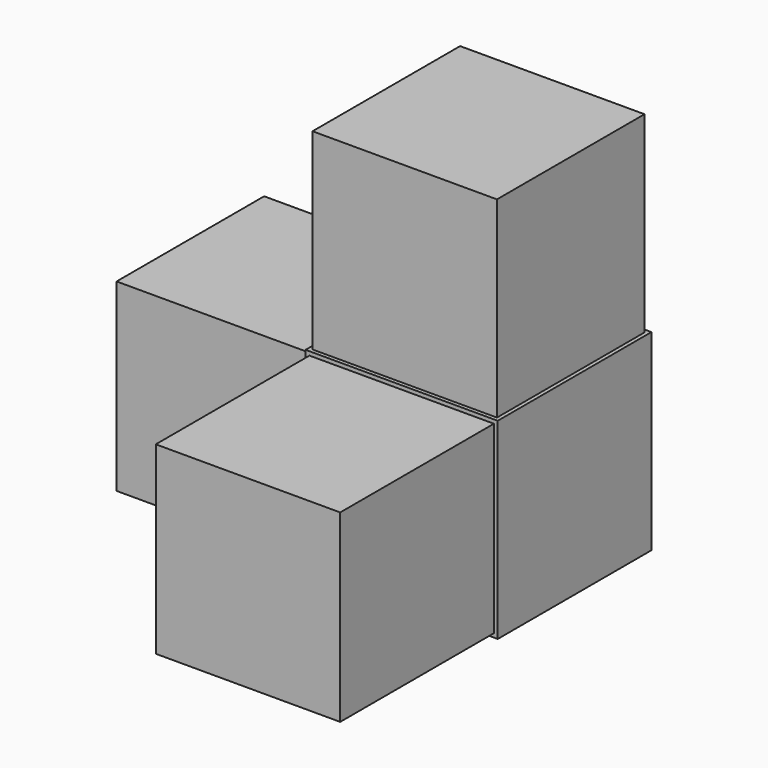
from build123d import *

# Parameters (mm, degrees)
F0_W     = 25
F0_H     = 25
F1_DEPTH = 25
F2_W     = 24
F2_H     = 24
F3_DEPTH = 25
F4_W     = 24
F4_H     = 24
F5_DEPTH = 25
F6_W     = 24
F6_H     = 24
F7_DEPTH = 25


with BuildPart() as f1:
    # F0 (on Right) → F1 (new body)
    with BuildSketch(Plane.YZ):
        with Locations((12.5, 12.5)):
            Rectangle(F0_W, F0_H)
    extrude(amount=F1_DEPTH)

    # F2 (on Right) → F3 (join)
    with BuildSketch(Plane.YZ):
        with Locations((12.5, 12.5)):
            Rectangle(F2_W, F2_H)
    extrude(amount=-F3_DEPTH)

    # F4 (on face) → F5 (join)
    with BuildSketch(Plane.XZ):
        with Locations((12.5, 12.5)):
            Rectangle(F4_W, F4_H)
    extrude(amount=F5_DEPTH)

    # F6 (on face) → F7 (join)
    with BuildSketch(Plane.XY.offset(25)):
        with Locations((12.5, 12.5)):
            Rectangle(F6_W, F6_H)
    extrude(amount=F7_DEPTH)


solid = f1.part
